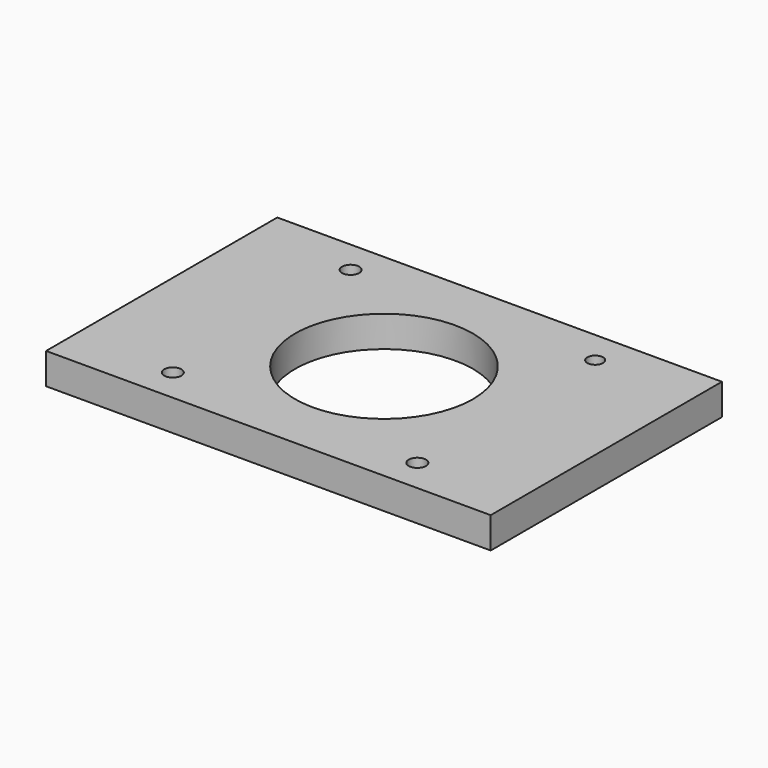
from build123d import *

# Parameters (mm, degrees)
SKETCH_W   = 200
SKETCH_H   = 130
SKETCH_R   = 40
SKETCH_R_2 = 3.880646
SKETCH_R_3 = 3.888523
SKETCH_R_4 = 3.528076
SKETCH_R_5 = 3.888534
PAD_DEPTH  = 14


with BuildPart() as part:
    # Sketch → Pad (new body)
    with BuildSketch(Plane.XY):
        with Locations((100, 65)):
            Rectangle(SKETCH_W, SKETCH_H)
        with Locations((100, 65)):
            Circle(SKETCH_R, mode=Mode.SUBTRACT)
        with Locations((45, 115)):
            Circle(SKETCH_R_2, mode=Mode.SUBTRACT)
        with Locations((45, 15)):
            Circle(SKETCH_R_3, mode=Mode.SUBTRACT)
        with Locations((155, 115)):
            Circle(SKETCH_R_4, mode=Mode.SUBTRACT)
        with Locations((155, 15)):
            Circle(SKETCH_R_5, mode=Mode.SUBTRACT)
    extrude(amount=PAD_DEPTH)


solid = part.part
